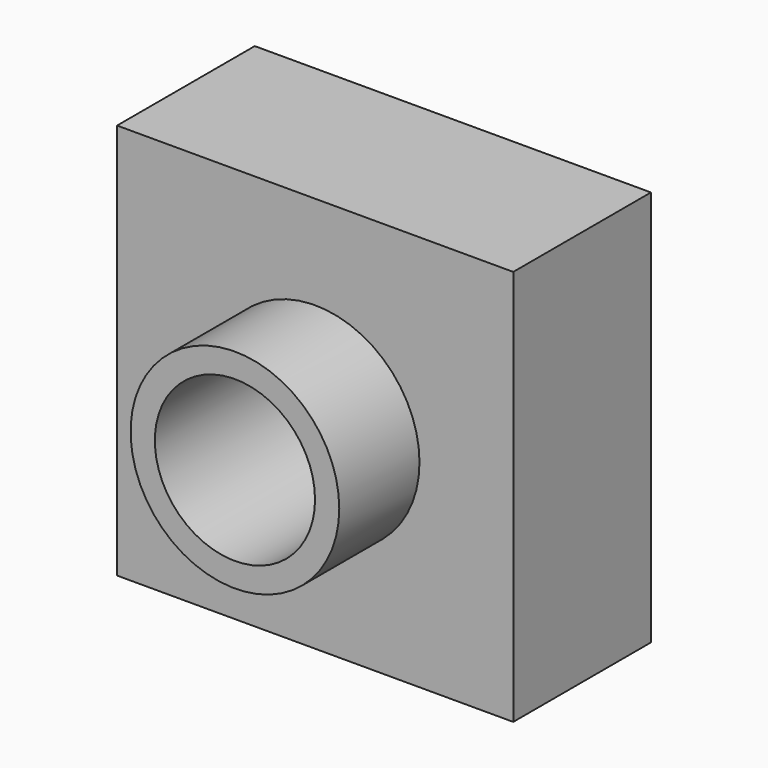
from build123d import *

# Parameters (mm, degrees)
F0_W     = 81.28
F0_H     = 81.28
F1_DEPTH = 35.306
F2_R     = 16.432892
F3_DEPTH = 52.324
F2_R_2   = 21.403736
F4_DEPTH = 55.88


with BuildPart() as f1:
    # F0 (on Front) → F1 (new body)
    with BuildSketch(Plane.XZ):
        Rectangle(F0_W, F0_H)
    extrude(amount=F1_DEPTH)

    # F2 (on Front) → F3 (cut)
    with BuildSketch(Plane.XZ):
        Circle(F2_R)
    extrude(amount=F3_DEPTH, mode=Mode.SUBTRACT)

    # F2 (on Front) → F4 (join)
    with BuildSketch(Plane.XZ):
        Circle(F2_R_2)
        Circle(F2_R, mode=Mode.SUBTRACT)
    extrude(amount=F4_DEPTH)


solid = f1.part
